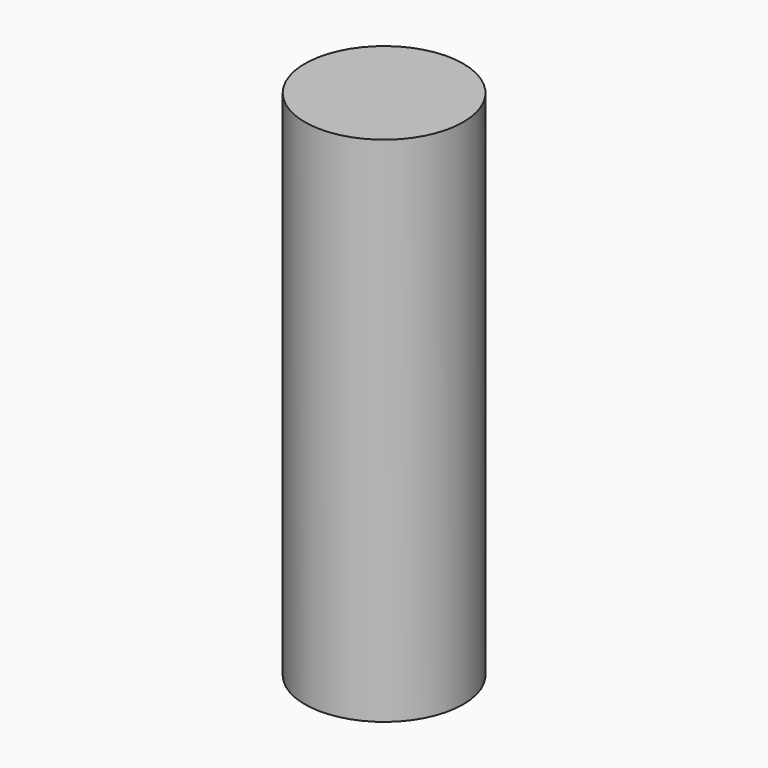
from build123d import *

# Parameters (mm, degrees)
CYLINDER_R     = 2.31775
CYLINDER_DEPTH = 15


with BuildPart() as part:
    # Cylinder → Cylinder (new body)
    with BuildSketch(Plane.XY.offset(-2.5)):
        Circle(CYLINDER_R)
    extrude(amount=CYLINDER_DEPTH)


solid = part.part
